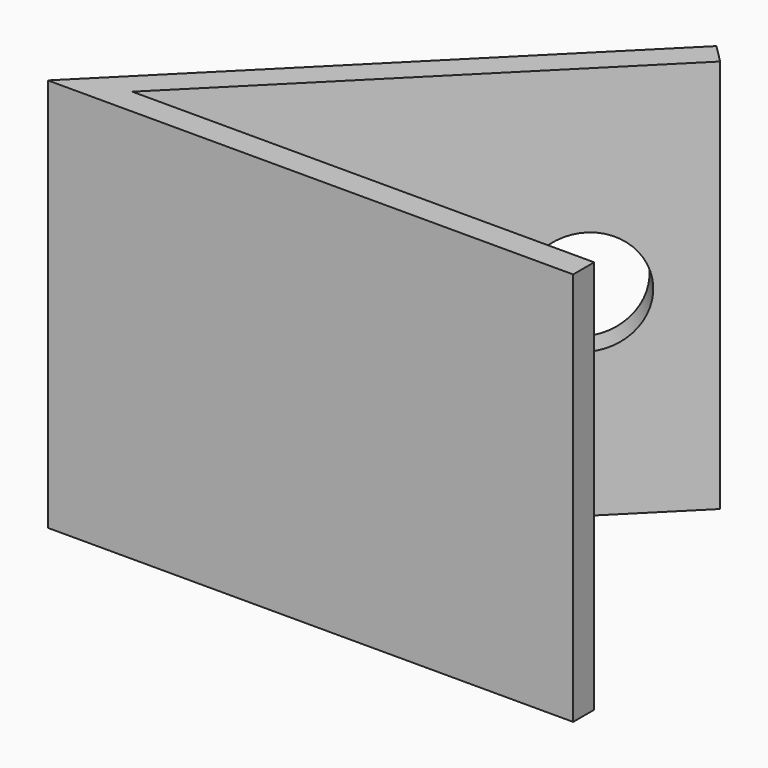
from build123d import *

# Parameters (mm, degrees)
F1_DEPTH = 75
F2_R     = 10
F3_DEPTH = 25


with BuildPart() as f1:
    # F0 (on Top) → F1 (new body)
    with BuildSketch(Plane.XY):
        Polygon((-50, 0), (50, 0), (50, 5), (-37.928932, 5), (24.246212, 67.175144), (20.710678, 70.710678), align=None)
    extrude(amount=F1_DEPTH)

    # F2 (on face) → F3 (cut)
    with BuildSketch(Plane(origin=(-25, 25, 0), x_dir=(-0.707107, -0.707107, 0), z_dir=(-0.707107, 0.707107, 0))):
        with Locations((-44.644661, 37.5)):
            Circle(F2_R)
    extrude(amount=-F3_DEPTH, mode=Mode.SUBTRACT)


solid = f1.part
